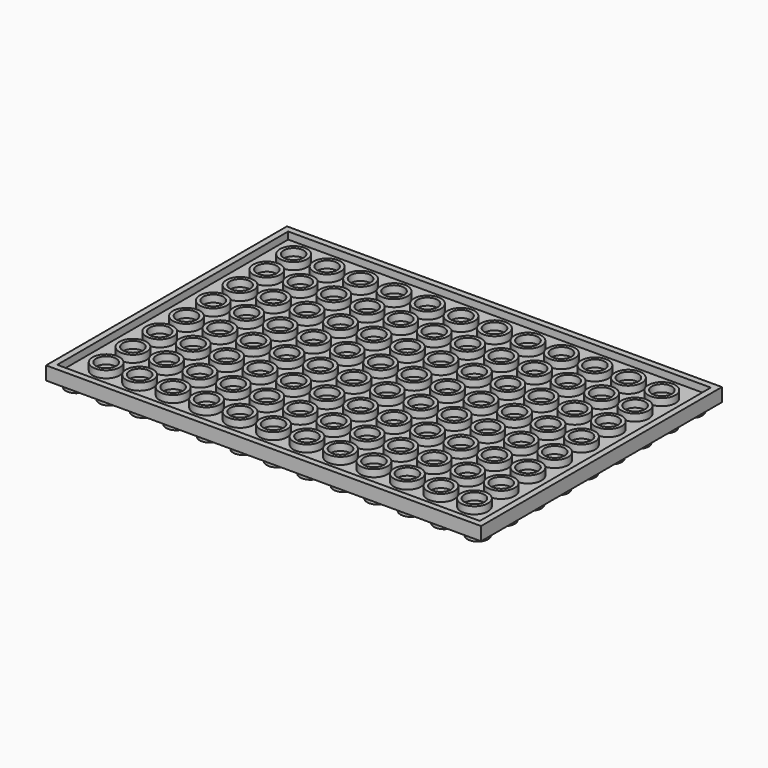
from build123d import *

# Parameters (mm, degrees)
F0_W     = 103.95
F0_H     = 71.95
F1_DEPTH = 3.2
F3_R     = 2.4
F2_W     = 101
F2_H     = 69
F2_R     = 3.25
F4_DEPTH = 1.7
F5_R     = 2.45
F6_DEPTH = 1.7


with BuildPart() as f1:
    # F0 (on Top) → F1 (new body)
    with BuildSketch(Plane.XY):
        with Locations((-51.975, 35.975)):
            Rectangle(F0_W, F0_H)
    extrude(amount=-F1_DEPTH)

    # F3 (on Top) + F2 (on Top) → F4 (cut)
    with BuildSketch(Plane.XY):
        with Locations((-7.975, 7.975)):
            Circle(F3_R)
        with Locations((-7.975, 15.975)):
            Circle(F3_R)
        with Locations((-7.975, 23.975)):
            Circle(F3_R)
        with Locations((-7.975, 31.975)):
            Circle(F3_R)
        with Locations((-7.975, 39.975)):
            Circle(F3_R)
        with Locations((-7.975, 47.975)):
            Circle(F3_R)
        with Locations((-7.975, 55.975)):
            Circle(F3_R)
        with Locations((-7.975, 63.975)):
            Circle(F3_R)
        with Locations((-15.975, 7.975)):
            Circle(F3_R)
        with Locations((-15.975, 15.975)):
            Circle(F3_R)
        with Locations((-15.975, 23.975)):
            Circle(F3_R)
        with Locations((-15.975, 31.975)):
            Circle(F3_R)
        with Locations((-15.975, 39.975)):
            Circle(F3_R)
        with Locations((-15.975, 47.975)):
            Circle(F3_R)
        with Locations((-15.975, 55.975)):
            Circle(F3_R)
        with Locations((-15.975, 63.975)):
            Circle(F3_R)
        with Locations((-23.975, 7.975)):
            Circle(F3_R)
        with Locations((-23.975, 15.975)):
            Circle(F3_R)
        with Locations((-23.975, 23.975)):
            Circle(F3_R)
        with Locations((-23.975, 31.975)):
            Circle(F3_R)
        with Locations((-23.975, 39.975)):
            Circle(F3_R)
        with Locations((-23.975, 47.975)):
            Circle(F3_R)
        with Locations((-23.975, 55.975)):
            Circle(F3_R)
        with Locations((-23.975, 63.975)):
            Circle(F3_R)
        with Locations((-31.975, 7.975)):
            Circle(F3_R)
        with Locations((-31.975, 15.975)):
            Circle(F3_R)
        with Locations((-31.975, 23.975)):
            Circle(F3_R)
        with Locations((-31.975, 31.975)):
            Circle(F3_R)
        with Locations((-31.975, 39.975)):
            Circle(F3_R)
        with Locations((-31.975, 47.975)):
            Circle(F3_R)
        with Locations((-31.975, 55.975)):
            Circle(F3_R)
        with Locations((-31.975, 63.975)):
            Circle(F3_R)
        with Locations((-39.975, 7.975)):
            Circle(F3_R)
        with Locations((-39.975, 15.975)):
            Circle(F3_R)
        with Locations((-39.975, 23.975)):
            Circle(F3_R)
        with Locations((-39.975, 31.975)):
            Circle(F3_R)
        with Locations((-39.975, 39.975)):
            Circle(F3_R)
        with Locations((-39.975, 47.975)):
            Circle(F3_R)
        with Locations((-39.975, 55.975)):
            Circle(F3_R)
        with Locations((-39.975, 63.975)):
            Circle(F3_R)
        with Locations((-47.975, 7.975)):
            Circle(F3_R)
        with Locations((-47.975, 15.975)):
            Circle(F3_R)
        with Locations((-47.975, 23.975)):
            Circle(F3_R)
        with Locations((-47.975, 31.975)):
            Circle(F3_R)
        with Locations((-47.975, 39.975)):
            Circle(F3_R)
        with Locations((-47.975, 47.975)):
            Circle(F3_R)
        with Locations((-47.975, 55.975)):
            Circle(F3_R)
        with Locations((-47.975, 63.975)):
            Circle(F3_R)
        with Locations((-55.975, 7.975)):
            Circle(F3_R)
        with Locations((-55.975, 15.975)):
            Circle(F3_R)
        with Locations((-55.975, 23.975)):
            Circle(F3_R)
        with Locations((-55.975, 31.975)):
            Circle(F3_R)
        with Locations((-55.975, 39.975)):
            Circle(F3_R)
        with Locations((-55.975, 47.975)):
            Circle(F3_R)
        with Locations((-55.975, 55.975)):
            Circle(F3_R)
        with Locations((-55.975, 63.975)):
            Circle(F3_R)
        with Locations((-63.975, 7.975)):
            Circle(F3_R)
        with Locations((-63.975, 15.975)):
            Circle(F3_R)
        with Locations((-63.975, 23.975)):
            Circle(F3_R)
        with Locations((-63.975, 31.975)):
            Circle(F3_R)
        with Locations((-63.975, 39.975)):
            Circle(F3_R)
        with Locations((-63.975, 47.975)):
            Circle(F3_R)
        with Locations((-63.975, 55.975)):
            Circle(F3_R)
        with Locations((-63.975, 63.975)):
            Circle(F3_R)
        with Locations((-71.975, 7.975)):
            Circle(F3_R)
        with Locations((-71.975, 15.975)):
            Circle(F3_R)
        with Locations((-71.975, 23.975)):
            Circle(F3_R)
        with Locations((-71.975, 31.975)):
            Circle(F3_R)
        with Locations((-71.975, 39.975)):
            Circle(F3_R)
        with Locations((-71.975, 47.975)):
            Circle(F3_R)
        with Locations((-71.975, 55.975)):
            Circle(F3_R)
        with Locations((-71.975, 63.975)):
            Circle(F3_R)
        with Locations((-79.975, 7.975)):
            Circle(F3_R)
        with Locations((-79.975, 15.975)):
            Circle(F3_R)
        with Locations((-79.975, 23.975)):
            Circle(F3_R)
        with Locations((-79.975, 31.975)):
            Circle(F3_R)
        with Locations((-79.975, 39.975)):
            Circle(F3_R)
        with Locations((-79.975, 47.975)):
            Circle(F3_R)
        with Locations((-79.975, 55.975)):
            Circle(F3_R)
        with Locations((-79.975, 63.975)):
            Circle(F3_R)
        with Locations((-87.975, 7.975)):
            Circle(F3_R)
        with Locations((-87.975, 15.975)):
            Circle(F3_R)
        with Locations((-87.975, 23.975)):
            Circle(F3_R)
        with Locations((-87.975, 31.975)):
            Circle(F3_R)
        with Locations((-87.975, 39.975)):
            Circle(F3_R)
        with Locations((-87.975, 47.975)):
            Circle(F3_R)
        with Locations((-87.975, 55.975)):
            Circle(F3_R)
        with Locations((-87.975, 63.975)):
            Circle(F3_R)
        with Locations((-95.975, 7.975)):
            Circle(F3_R)
        with Locations((-95.975, 15.975)):
            Circle(F3_R)
        with Locations((-95.975, 23.975)):
            Circle(F3_R)
        with Locations((-95.975, 31.975)):
            Circle(F3_R)
        with Locations((-95.975, 39.975)):
            Circle(F3_R)
        with Locations((-95.975, 47.975)):
            Circle(F3_R)
        with Locations((-95.975, 55.975)):
            Circle(F3_R)
        with Locations((-95.975, 63.975)):
            Circle(F3_R)
    with BuildSketch(Plane.XY):
        with Locations((-51.975, 35.975)):
            Rectangle(F2_W, F2_H)
        with Locations((-95.975, 7.975)):
            Circle(F2_R, mode=Mode.SUBTRACT)
        with Locations((-87.975, 7.975)):
            Circle(F2_R, mode=Mode.SUBTRACT)
        with Locations((-79.975, 7.975)):
            Circle(F2_R, mode=Mode.SUBTRACT)
        with Locations((-95.975, 15.975)):
            Circle(F2_R, mode=Mode.SUBTRACT)
        with Locations((-87.975, 15.975)):
            Circle(F2_R, mode=Mode.SUBTRACT)
        with Locations((-79.975, 15.975)):
            Circle(F2_R, mode=Mode.SUBTRACT)
        with Locations((-71.975, 7.975)):
            Circle(F2_R, mode=Mode.SUBTRACT)
        with Locations((-63.975, 7.975)):
            Circle(F2_R, mode=Mode.SUBTRACT)
        with Locations((-55.975, 7.975)):
            Circle(F2_R, mode=Mode.SUBTRACT)
        with Locations((-71.975, 15.975)):
            Circle(F2_R, mode=Mode.SUBTRACT)
        with Locations((-63.975, 15.975)):
            Circle(F2_R, mode=Mode.SUBTRACT)
        with Locations((-55.975, 15.975)):
            Circle(F2_R, mode=Mode.SUBTRACT)
        with Locations((-95.975, 23.975)):
            Circle(F2_R, mode=Mode.SUBTRACT)
        with Locations((-87.975, 23.975)):
            Circle(F2_R, mode=Mode.SUBTRACT)
        with Locations((-79.975, 23.975)):
            Circle(F2_R, mode=Mode.SUBTRACT)
        with Locations((-95.975, 31.975)):
            Circle(F2_R, mode=Mode.SUBTRACT)
        with Locations((-87.975, 31.975)):
            Circle(F2_R, mode=Mode.SUBTRACT)
        with Locations((-79.975, 31.975)):
            Circle(F2_R, mode=Mode.SUBTRACT)
        with Locations((-71.975, 23.975)):
            Circle(F2_R, mode=Mode.SUBTRACT)
        with Locations((-63.975, 23.975)):
            Circle(F2_R, mode=Mode.SUBTRACT)
        with Locations((-55.975, 23.975)):
            Circle(F2_R, mode=Mode.SUBTRACT)
        with Locations((-71.975, 31.975)):
            Circle(F2_R, mode=Mode.SUBTRACT)
        with Locations((-63.975, 31.975)):
            Circle(F2_R, mode=Mode.SUBTRACT)
        with Locations((-55.975, 31.975)):
            Circle(F2_R, mode=Mode.SUBTRACT)
        with Locations((-47.975, 7.975)):
            Circle(F2_R, mode=Mode.SUBTRACT)
        with Locations((-39.975, 7.975)):
            Circle(F2_R, mode=Mode.SUBTRACT)
        with Locations((-31.975, 7.975)):
            Circle(F2_R, mode=Mode.SUBTRACT)
        with Locations((-47.975, 15.975)):
            Circle(F2_R, mode=Mode.SUBTRACT)
        with Locations((-39.975, 15.975)):
            Circle(F2_R, mode=Mode.SUBTRACT)
        with Locations((-31.975, 15.975)):
            Circle(F2_R, mode=Mode.SUBTRACT)
        with Locations((-23.975, 7.975)):
            Circle(F2_R, mode=Mode.SUBTRACT)
        with Locations((-15.975, 7.975)):
            Circle(F2_R, mode=Mode.SUBTRACT)
        with Locations((-7.975, 7.975)):
            Circle(F2_R, mode=Mode.SUBTRACT)
        with Locations((-23.975, 15.975)):
            Circle(F2_R, mode=Mode.SUBTRACT)
        with Locations((-15.975, 15.975)):
            Circle(F2_R, mode=Mode.SUBTRACT)
        with Locations((-7.975, 15.975)):
            Circle(F2_R, mode=Mode.SUBTRACT)
        with Locations((-47.975, 23.975)):
            Circle(F2_R, mode=Mode.SUBTRACT)
        with Locations((-39.975, 23.975)):
            Circle(F2_R, mode=Mode.SUBTRACT)
        with Locations((-31.975, 23.975)):
            Circle(F2_R, mode=Mode.SUBTRACT)
        with Locations((-47.975, 31.975)):
            Circle(F2_R, mode=Mode.SUBTRACT)
        with Locations((-39.975, 31.975)):
            Circle(F2_R, mode=Mode.SUBTRACT)
        with Locations((-31.975, 31.975)):
            Circle(F2_R, mode=Mode.SUBTRACT)
        with Locations((-23.975, 23.975)):
            Circle(F2_R, mode=Mode.SUBTRACT)
        with Locations((-15.975, 23.975)):
            Circle(F2_R, mode=Mode.SUBTRACT)
        with Locations((-7.975, 23.975)):
            Circle(F2_R, mode=Mode.SUBTRACT)
        with Locations((-23.975, 31.975)):
            Circle(F2_R, mode=Mode.SUBTRACT)
        with Locations((-15.975, 31.975)):
            Circle(F2_R, mode=Mode.SUBTRACT)
        with Locations((-7.975, 31.975)):
            Circle(F2_R, mode=Mode.SUBTRACT)
        with Locations((-95.975, 39.975)):
            Circle(F2_R, mode=Mode.SUBTRACT)
        with Locations((-87.975, 39.975)):
            Circle(F2_R, mode=Mode.SUBTRACT)
        with Locations((-79.975, 39.975)):
            Circle(F2_R, mode=Mode.SUBTRACT)
        with Locations((-95.975, 47.975)):
            Circle(F2_R, mode=Mode.SUBTRACT)
        with Locations((-87.975, 47.975)):
            Circle(F2_R, mode=Mode.SUBTRACT)
        with Locations((-79.975, 47.975)):
            Circle(F2_R, mode=Mode.SUBTRACT)
        with Locations((-71.975, 39.975)):
            Circle(F2_R, mode=Mode.SUBTRACT)
        with Locations((-63.975, 39.975)):
            Circle(F2_R, mode=Mode.SUBTRACT)
        with Locations((-55.975, 39.975)):
            Circle(F2_R, mode=Mode.SUBTRACT)
        with Locations((-71.975, 47.975)):
            Circle(F2_R, mode=Mode.SUBTRACT)
        with Locations((-63.975, 47.975)):
            Circle(F2_R, mode=Mode.SUBTRACT)
        with Locations((-55.975, 47.975)):
            Circle(F2_R, mode=Mode.SUBTRACT)
        with Locations((-95.975, 55.975)):
            Circle(F2_R, mode=Mode.SUBTRACT)
        with Locations((-87.975, 55.975)):
            Circle(F2_R, mode=Mode.SUBTRACT)
        with Locations((-79.975, 55.975)):
            Circle(F2_R, mode=Mode.SUBTRACT)
        with Locations((-95.975, 63.975)):
            Circle(F2_R, mode=Mode.SUBTRACT)
        with Locations((-87.975, 63.975)):
            Circle(F2_R, mode=Mode.SUBTRACT)
        with Locations((-79.975, 63.975)):
            Circle(F2_R, mode=Mode.SUBTRACT)
        with Locations((-71.975, 55.975)):
            Circle(F2_R, mode=Mode.SUBTRACT)
        with Locations((-63.975, 55.975)):
            Circle(F2_R, mode=Mode.SUBTRACT)
        with Locations((-55.975, 55.975)):
            Circle(F2_R, mode=Mode.SUBTRACT)
        with Locations((-71.975, 63.975)):
            Circle(F2_R, mode=Mode.SUBTRACT)
        with Locations((-63.975, 63.975)):
            Circle(F2_R, mode=Mode.SUBTRACT)
        with Locations((-55.975, 63.975)):
            Circle(F2_R, mode=Mode.SUBTRACT)
        with Locations((-47.975, 39.975)):
            Circle(F2_R, mode=Mode.SUBTRACT)
        with Locations((-39.975, 39.975)):
            Circle(F2_R, mode=Mode.SUBTRACT)
        with Locations((-31.975, 39.975)):
            Circle(F2_R, mode=Mode.SUBTRACT)
        with Locations((-47.975, 47.975)):
            Circle(F2_R, mode=Mode.SUBTRACT)
        with Locations((-39.975, 47.975)):
            Circle(F2_R, mode=Mode.SUBTRACT)
        with Locations((-31.975, 47.975)):
            Circle(F2_R, mode=Mode.SUBTRACT)
        with Locations((-23.975, 39.975)):
            Circle(F2_R, mode=Mode.SUBTRACT)
        with Locations((-15.975, 39.975)):
            Circle(F2_R, mode=Mode.SUBTRACT)
        with Locations((-7.975, 39.975)):
            Circle(F2_R, mode=Mode.SUBTRACT)
        with Locations((-23.975, 47.975)):
            Circle(F2_R, mode=Mode.SUBTRACT)
        with Locations((-15.975, 47.975)):
            Circle(F2_R, mode=Mode.SUBTRACT)
        with Locations((-7.975, 47.975)):
            Circle(F2_R, mode=Mode.SUBTRACT)
        with Locations((-47.975, 55.975)):
            Circle(F2_R, mode=Mode.SUBTRACT)
        with Locations((-39.975, 55.975)):
            Circle(F2_R, mode=Mode.SUBTRACT)
        with Locations((-31.975, 55.975)):
            Circle(F2_R, mode=Mode.SUBTRACT)
        with Locations((-47.975, 63.975)):
            Circle(F2_R, mode=Mode.SUBTRACT)
        with Locations((-39.975, 63.975)):
            Circle(F2_R, mode=Mode.SUBTRACT)
        with Locations((-31.975, 63.975)):
            Circle(F2_R, mode=Mode.SUBTRACT)
        with Locations((-23.975, 55.975)):
            Circle(F2_R, mode=Mode.SUBTRACT)
        with Locations((-15.975, 55.975)):
            Circle(F2_R, mode=Mode.SUBTRACT)
        with Locations((-7.975, 55.975)):
            Circle(F2_R, mode=Mode.SUBTRACT)
        with Locations((-23.975, 63.975)):
            Circle(F2_R, mode=Mode.SUBTRACT)
        with Locations((-15.975, 63.975)):
            Circle(F2_R, mode=Mode.SUBTRACT)
        with Locations((-7.975, 63.975)):
            Circle(F2_R, mode=Mode.SUBTRACT)
    extrude(amount=-F4_DEPTH, mode=Mode.SUBTRACT)

    # F5 (on face) → F6 (join)
    with BuildSketch(Plane(origin=(0, 0, -3.2), x_dir=(1, 0, 0), z_dir=(0, 0, -1))):
        with Locations((-99.95, -67.95)):
            Circle(F5_R)
        with Locations((-99.95, -59.95)):
            Circle(F5_R)
        with Locations((-99.95, -51.95)):
            Circle(F5_R)
        with Locations((-99.95, -43.95)):
            Circle(F5_R)
        with Locations((-99.95, -35.95)):
            Circle(F5_R)
        with Locations((-99.95, -27.95)):
            Circle(F5_R)
        with Locations((-99.95, -19.95)):
            Circle(F5_R)
        with Locations((-99.95, -11.95)):
            Circle(F5_R)
        with Locations((-91.95, -67.95)):
            Circle(F5_R)
        with Locations((-91.95, -59.95)):
            Circle(F5_R)
        with Locations((-91.95, -51.95)):
            Circle(F5_R)
        with Locations((-91.95, -43.95)):
            Circle(F5_R)
        with Locations((-91.95, -35.95)):
            Circle(F5_R)
        with Locations((-91.95, -27.95)):
            Circle(F5_R)
        with Locations((-91.95, -19.95)):
            Circle(F5_R)
        with Locations((-91.95, -11.95)):
            Circle(F5_R)
        with Locations((-83.95, -67.95)):
            Circle(F5_R)
        with Locations((-83.95, -59.95)):
            Circle(F5_R)
        with Locations((-83.95, -51.95)):
            Circle(F5_R)
        with Locations((-83.95, -43.95)):
            Circle(F5_R)
        with Locations((-83.95, -35.95)):
            Circle(F5_R)
        with Locations((-83.95, -27.95)):
            Circle(F5_R)
        with Locations((-83.95, -19.95)):
            Circle(F5_R)
        with Locations((-83.95, -11.95)):
            Circle(F5_R)
        with Locations((-75.95, -67.95)):
            Circle(F5_R)
        with Locations((-75.95, -59.95)):
            Circle(F5_R)
        with Locations((-75.95, -51.95)):
            Circle(F5_R)
        with Locations((-75.95, -43.95)):
            Circle(F5_R)
        with Locations((-75.95, -35.95)):
            Circle(F5_R)
        with Locations((-75.95, -27.95)):
            Circle(F5_R)
        with Locations((-75.95, -19.95)):
            Circle(F5_R)
        with Locations((-75.95, -11.95)):
            Circle(F5_R)
        with Locations((-67.95, -67.95)):
            Circle(F5_R)
        with Locations((-67.95, -59.95)):
            Circle(F5_R)
        with Locations((-67.95, -51.95)):
            Circle(F5_R)
        with Locations((-67.95, -43.95)):
            Circle(F5_R)
        with Locations((-67.95, -35.95)):
            Circle(F5_R)
        with Locations((-67.95, -27.95)):
            Circle(F5_R)
        with Locations((-67.95, -19.95)):
            Circle(F5_R)
        with Locations((-67.95, -11.95)):
            Circle(F5_R)
        with Locations((-59.95, -67.95)):
            Circle(F5_R)
        with Locations((-59.95, -59.95)):
            Circle(F5_R)
        with Locations((-59.95, -51.95)):
            Circle(F5_R)
        with Locations((-59.95, -43.95)):
            Circle(F5_R)
        with Locations((-59.95, -35.95)):
            Circle(F5_R)
        with Locations((-59.95, -27.95)):
            Circle(F5_R)
        with Locations((-59.95, -19.95)):
            Circle(F5_R)
        with Locations((-59.95, -11.95)):
            Circle(F5_R)
        with Locations((-51.95, -67.95)):
            Circle(F5_R)
        with Locations((-51.95, -59.95)):
            Circle(F5_R)
        with Locations((-51.95, -51.95)):
            Circle(F5_R)
        with Locations((-51.95, -43.95)):
            Circle(F5_R)
        with Locations((-51.95, -35.95)):
            Circle(F5_R)
        with Locations((-51.95, -27.95)):
            Circle(F5_R)
        with Locations((-51.95, -19.95)):
            Circle(F5_R)
        with Locations((-51.95, -11.95)):
            Circle(F5_R)
        with Locations((-43.95, -67.95)):
            Circle(F5_R)
        with Locations((-43.95, -59.95)):
            Circle(F5_R)
        with Locations((-43.95, -51.95)):
            Circle(F5_R)
        with Locations((-43.95, -43.95)):
            Circle(F5_R)
        with Locations((-43.95, -35.95)):
            Circle(F5_R)
        with Locations((-43.95, -27.95)):
            Circle(F5_R)
        with Locations((-43.95, -19.95)):
            Circle(F5_R)
        with Locations((-43.95, -11.95)):
            Circle(F5_R)
        with Locations((-35.95, -67.95)):
            Circle(F5_R)
        with Locations((-35.95, -59.95)):
            Circle(F5_R)
        with Locations((-35.95, -51.95)):
            Circle(F5_R)
        with Locations((-35.95, -43.95)):
            Circle(F5_R)
        with Locations((-35.95, -35.95)):
            Circle(F5_R)
        with Locations((-35.95, -27.95)):
            Circle(F5_R)
        with Locations((-35.95, -19.95)):
            Circle(F5_R)
        with Locations((-35.95, -11.95)):
            Circle(F5_R)
        with Locations((-27.95, -67.95)):
            Circle(F5_R)
        with Locations((-27.95, -59.95)):
            Circle(F5_R)
        with Locations((-27.95, -51.95)):
            Circle(F5_R)
        with Locations((-27.95, -43.95)):
            Circle(F5_R)
        with Locations((-27.95, -35.95)):
            Circle(F5_R)
        with Locations((-27.95, -27.95)):
            Circle(F5_R)
        with Locations((-27.95, -19.95)):
            Circle(F5_R)
        with Locations((-27.95, -11.95)):
            Circle(F5_R)
        with Locations((-19.95, -67.95)):
            Circle(F5_R)
        with Locations((-19.95, -59.95)):
            Circle(F5_R)
        with Locations((-19.95, -51.95)):
            Circle(F5_R)
        with Locations((-19.95, -43.95)):
            Circle(F5_R)
        with Locations((-19.95, -35.95)):
            Circle(F5_R)
        with Locations((-19.95, -27.95)):
            Circle(F5_R)
        with Locations((-19.95, -19.95)):
            Circle(F5_R)
        with Locations((-19.95, -11.95)):
            Circle(F5_R)
        with Locations((-11.95, -67.95)):
            Circle(F5_R)
        with Locations((-11.95, -59.95)):
            Circle(F5_R)
        with Locations((-11.95, -51.95)):
            Circle(F5_R)
        with Locations((-11.95, -43.95)):
            Circle(F5_R)
        with Locations((-11.95, -35.95)):
            Circle(F5_R)
        with Locations((-11.95, -27.95)):
            Circle(F5_R)
        with Locations((-11.95, -19.95)):
            Circle(F5_R)
        with Locations((-11.95, -11.95)):
            Circle(F5_R)
        with Locations((-3.95, -67.95)):
            Circle(F5_R)
        with Locations((-3.95, -59.95)):
            Circle(F5_R)
        with Locations((-3.95, -51.95)):
            Circle(F5_R)
        with Locations((-3.95, -43.95)):
            Circle(F5_R)
        with Locations((-3.95, -35.95)):
            Circle(F5_R)
        with Locations((-3.95, -27.95)):
            Circle(F5_R)
        with Locations((-3.95, -19.95)):
            Circle(F5_R)
        with Locations((-3.95, -11.95)):
            Circle(F5_R)
        with Locations((-99.95, -3.95)):
            Circle(F5_R)
        with Locations((-91.95, -3.95)):
            Circle(F5_R)
        with Locations((-83.95, -3.95)):
            Circle(F5_R)
        with Locations((-75.95, -3.95)):
            Circle(F5_R)
        with Locations((-67.95, -3.95)):
            Circle(F5_R)
        with Locations((-59.95, -3.95)):
            Circle(F5_R)
        with Locations((-51.95, -3.95)):
            Circle(F5_R)
        with Locations((-43.95, -3.95)):
            Circle(F5_R)
        with Locations((-35.95, -3.95)):
            Circle(F5_R)
        with Locations((-27.95, -3.95)):
            Circle(F5_R)
        with Locations((-19.95, -3.95)):
            Circle(F5_R)
        with Locations((-11.95, -3.95)):
            Circle(F5_R)
        with Locations((-3.95, -3.95)):
            Circle(F5_R)
    extrude(amount=F6_DEPTH)


solid = f1.part
